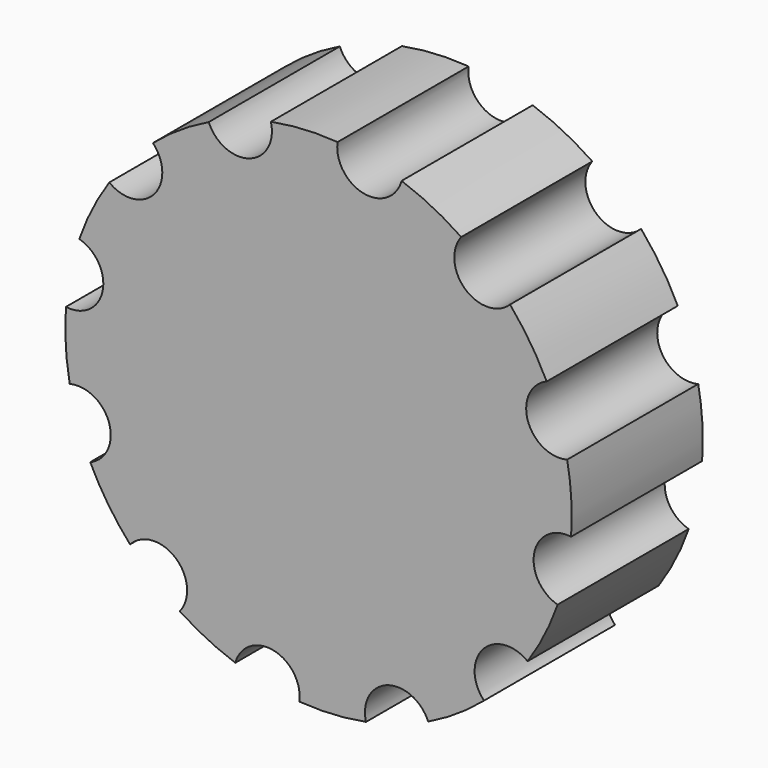
from build123d import *

# Parameters (mm, degrees)
F1_DEPTH = 15.875


with BuildPart() as f1:
    # F0 (on Front) → F1 (new body, symmetric)
    with BuildSketch(Plane.XZ):
        with BuildLine():
            Line((-43.1179597079, -20.6795539033), (-35.6798299226, -32.0231574202))
            ThreePointArc((-35.6798299226, -32.0231574202), (-28.999387078, -31.3506516016), (-25.4497350562, -37.0498226993))
            ThreePointArc((-25.4497350562, -37.0498226993), (-25.6219242672, -38.5185479478), (-26.1291535934, -39.9076200809))
            Line((-26.1291535934, -39.9076200809), (-15.6603085893, -45.1835936364))
            ThreePointArc((-15.6603085893, -45.1835936364), (-8.6969613087, -41.8243775437), (-3.6499608348, -47.681025418))
            Line((-3.6499608348, -47.681025418), (9.0295717487, -46.960294218))
            ThreePointArc((9.0295717487, -46.960294218), (13.3803993428, -40.5694541047), (20.6795539033, -43.1179597079))
            Line((20.6795539033, -43.1179597079), (31.2999856287, -36.1540218876))
            ThreePointArc((31.2999856287, -36.1540218876), (31.872492796, -28.4439782009), (39.4679988731, -27.0014715148))
            Line((39.4679988731, -27.0014715148), (45.1835936364, -15.6603085893))
            ThreePointArc((45.1835936364, -15.6603085893), (41.8243775437, -8.6969613087), (47.681025418, -3.6499608348))
            Line((47.681025418, -3.6499608348), (46.960294218, 9.0295717487))
            ThreePointArc((46.960294218, 9.0295717487), (40.5694541047, 13.3803993428), (43.1179597079, 20.6795539033))
            Line((43.1179597079, 20.6795539033), (36.1540218876, 31.2999856287))
            ThreePointArc((36.1540218876, 31.2999856287), (28.4439782009, 31.872492796), (27.0014715148, 39.4679988731))
            Line((27.0014715148, 39.4679988731), (15.6603085893, 45.1835936364))
            ThreePointArc((15.6603085893, 45.1835936364), (8.6969613087, 41.8243775437), (3.6499608348, 47.681025418))
            Line((3.6499608348, 47.681025418), (-9.0295717487, 46.960294218))
            ThreePointArc((-9.0295717487, 46.960294218), (-9.0218969832, 46.7801840579), (-9.0193380405, 46.599928618))
            ThreePointArc((-9.0193380405, 46.599928618), (-13.5523860225, 40.5154249107), (-20.6795539033, 43.1179597079))
            Line((-20.6795539033, 43.1179597079), (-31.2999856287, 36.1540218876))
            ThreePointArc((-31.2999856287, 36.1540218876), (-30.5256977842, 34.4890049955), (-30.2602014915, 32.6720529775))
            ThreePointArc((-30.2602014915, 32.6720529775), (-33.2803751727, 27.2651354928), (-39.4679988731, 27.0014715148))
            Line((-39.4679988731, 27.0014715148), (-45.1835936364, 15.6603085893))
            ThreePointArc((-45.1835936364, 15.6603085893), (-42.6344735333, 13.3195534454), (-41.691391018, 9.9897271266))
            ThreePointArc((-41.691391018, 9.9897271266), (-43.4256125593, 5.6288683556), (-47.681025418, 3.6499608348))
            Line((-47.681025418, 3.6499608348), (-46.960294218, -9.0295717487))
            ThreePointArc((-46.960294218, -9.0295717487), (-42.2390698471, -10.7535595818), (-40.249928618, -15.3693380405))
            ThreePointArc((-40.249928618, -15.3693380405), (-41.0127556934, -18.3869527791), (-43.1179597079, -20.6795539033))
        make_face()
        with BuildLine():
            ThreePointArc((-40.5228638212, 27.6706958124), (-43.8188886794, 22.0833623778), (-46.3490638812, 16.1100644426))
            ThreePointArc((-46.3490638812, 16.1100644426), (-45.7552417742, 15.9139166606), (-45.1835936364, 15.6603085893))
            Line((-45.1835936364, 15.6603085893), (-39.4679988731, 27.0014715148))
            ThreePointArc((-39.4679988731, 27.0014715148), (-40.0119284743, 27.3100800632), (-40.5228638212, 27.6706958124))
        make_face()
        with BuildLine():
            ThreePointArc((-21.2584815971, 44.2249574245), (-26.9065895731, 41.0341971599), (-32.0844345415, 37.1262570045))
            ThreePointArc((-32.0844345415, 37.1262570045), (-31.6682434024, 36.6594769889), (-31.2999856287, 36.1540218876))
            Line((-31.2999856287, 36.1540218876), (-20.6795539033, 43.1179597079))
            ThreePointArc((-20.6795539033, 43.1179597079), (-20.9963064816, 43.6571873513), (-21.2584815971, 44.2249574245))
        make_face()
        with BuildLine():
            ThreePointArc((3.7020936033, 48.9291774094), (-2.7846915195, 48.9899519509), (-9.2228068767, 48.1944989841))
            ThreePointArc((-9.2228068767, 48.1944989841), (-9.0957647853, 47.582160063), (-9.0295717487, 46.960294218))
            Line((-9.0295717487, 46.960294218), (3.6499608348, 47.681025418))
            ThreePointArc((3.6499608348, 47.681025418), (3.6452588769, 48.3063865448), (3.7020936033, 48.9291774094))
        make_face()
        with BuildLine():
            ThreePointArc((16.1100644426, 46.3490638812), (15.9139166606, 45.7552417742), (15.6603085893, 45.1835936364))
            Line((15.6603085893, 45.1835936364), (27.0014715148, 39.4679988731))
            ThreePointArc((27.0014715148, 39.4679988731), (27.3100800632, 40.0119284743), (27.6706958124, 40.5228638212))
            ThreePointArc((27.6706958124, 40.5228638212), (22.0833623778, 43.8188886794), (16.1100644426, 46.3490638812))
        make_face()
        with BuildLine():
            Line((36.1540218876, 31.2999856287), (43.1179597079, 20.6795539033))
            ThreePointArc((43.1179597079, 20.6795539033), (43.6571873513, 20.9963064816), (44.2249574245, 21.2584815971))
            ThreePointArc((44.2249574245, 21.2584815971), (41.0341971599, 26.9065895731), (37.1262570045, 32.0844345415))
            ThreePointArc((37.1262570045, 32.0844345415), (36.6594769889, 31.6682434024), (36.1540218876, 31.2999856287))
        make_face()
        with BuildLine():
            Line((46.960294218, 9.0295717487), (47.681025418, -3.6499608348))
            ThreePointArc((47.681025418, -3.6499608348), (48.3063865448, -3.6452588769), (48.9291774094, -3.7020936033))
            ThreePointArc((48.9291774094, -3.7020936033), (49.0340558686, -1.8523671577), (49.0690319755, 0))
            ThreePointArc((49.0690319755, 0), (48.8499094713, 4.6320884771), (48.1944989841, 9.2228068767))
            ThreePointArc((48.1944989841, 9.2228068767), (47.582160063, 9.0957647853), (46.960294218, 9.0295717487))
        make_face()
        with BuildLine():
            Line((45.1835936364, -15.6603085893), (39.4679988731, -27.0014715148))
            ThreePointArc((39.4679988731, -27.0014715148), (40.0119284743, -27.3100800632), (40.5228638212, -27.6706958124))
            ThreePointArc((40.5228638212, -27.6706958124), (43.8188886794, -22.0833623778), (46.3490638812, -16.1100644426))
            ThreePointArc((46.3490638812, -16.1100644426), (45.7552417742, -15.9139166606), (45.1835936364, -15.6603085893))
        make_face()
        with BuildLine():
            Line((31.2999856287, -36.1540218876), (20.6795539033, -43.1179597079))
            ThreePointArc((20.6795539033, -43.1179597079), (20.9963064816, -43.6571873513), (21.2584815971, -44.2249574245))
            ThreePointArc((21.2584815971, -44.2249574245), (26.9065895731, -41.0341971599), (32.0844345415, -37.1262570045))
            ThreePointArc((32.0844345415, -37.1262570045), (31.6682434024, -36.6594769889), (31.2999856287, -36.1540218876))
        make_face()
        with BuildLine():
            Line((9.0295717487, -46.960294218), (-3.6499608348, -47.681025418))
            ThreePointArc((-3.6499608348, -47.681025418), (-3.6422860692, -47.8611355781), (-3.6397271266, -48.041391018))
            ThreePointArc((-3.6397271266, -48.041391018), (-3.6553379345, -48.4863781679), (-3.7020936033, -48.9291774094))
            ThreePointArc((-3.7020936033, -48.9291774094), (2.7846915195, -48.9899519509), (9.2228068767, -48.1944989841))
            ThreePointArc((9.2228068767, -48.1944989841), (9.0957647853, -47.582160063), (9.0295717487, -46.960294218))
        make_face()
        with BuildLine():
            Line((-15.6603085893, -45.1835936364), (-26.1291535934, -39.9076200809))
            ThreePointArc((-26.1291535934, -39.9076200809), (-26.47009136, -40.501981165), (-26.8730859737, -41.0561463031))
            ThreePointArc((-26.8730859737, -41.0561463031), (-21.6539037832, -44.0326963739), (-16.1100644426, -46.3490638812))
            ThreePointArc((-16.1100644426, -46.3490638812), (-15.9139166606, -45.7552417742), (-15.6603085893, -45.1835936364))
        make_face()
        with BuildLine():
            ThreePointArc((-36.5067509859, -32.7876048449), (-36.1102701648, -32.3870137736), (-35.6798299226, -32.0231574202))
            Line((-35.6798299226, -32.0231574202), (-43.1179597079, -20.6795539033))
            ThreePointArc((-43.1179597079, -20.6795539033), (-43.6571873513, -20.9963064816), (-44.2249574245, -21.2584815971))
            ThreePointArc((-44.2249574245, -21.2584815971), (-40.7753891021, -27.2972075968), (-36.5067509859, -32.7876048449))
        make_face()
        with BuildLine():
            ThreePointArc((-48.9291774094, 3.7020936033), (-48.9899519509, -2.7846915195), (-48.1944989841, -9.2228068767))
            ThreePointArc((-48.1944989841, -9.2228068767), (-47.582160063, -9.0957647853), (-46.960294218, -9.0295717487))
            Line((-46.960294218, -9.0295717487), (-47.681025418, 3.6499608348))
            ThreePointArc((-47.681025418, 3.6499608348), (-48.3063865448, 3.6452588769), (-48.9291774094, 3.7020936033))
        make_face()
    extrude(amount=F1_DEPTH, both=True)


solid = f1.part
